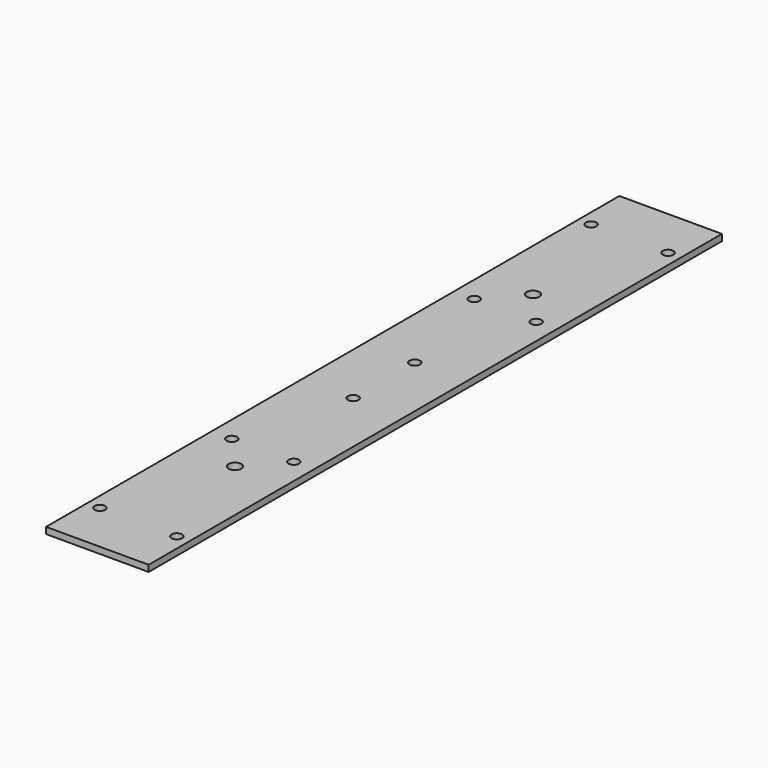
from build123d import *

# Parameters (mm, degrees)
F0_W     = 50.8
F0_H     = 3.175
F1_DEPTH = 354.8
F2_R     = 2.6162
F2_R_2   = 3.175
F3_DEPTH = 3.176


with BuildPart() as f1:
    # F0 (on Front) → F1 (new body)
    with BuildSketch(Plane.XZ):
        Rectangle(F0_W, F0_H)
    extrude(amount=F1_DEPTH)

    # F2 (on face) → F3 (cut, through all)
    with BuildSketch(Plane.XY.offset(1.5875)):
        with Locations((0, -158.35)):
            Circle(F2_R)
        with Locations((0, -196.45)):
            Circle(F2_R)
        with Locations((-19.05, -329.4)):
            Circle(F2_R)
        with Locations((19.05, -329.4)):
            Circle(F2_R)
        with Locations((19.05, -25.4)):
            Circle(F2_R)
        with Locations((-19.05, -25.4)):
            Circle(F2_R)
        with Locations((-15.3416, -252.4)):
            Circle(F2_R)
        with Locations((15.3416, -252.4)):
            Circle(F2_R)
        with Locations((15.3416, -102.4)):
            Circle(F2_R)
        with Locations((-15.3416, -102.4)):
            Circle(F2_R)
        with Locations((0, -269.6254)):
            Circle(F2_R_2)
        with Locations((0, -85.1746)):
            Circle(F2_R_2)
    extrude(amount=-F3_DEPTH, mode=Mode.SUBTRACT)


solid = f1.part
